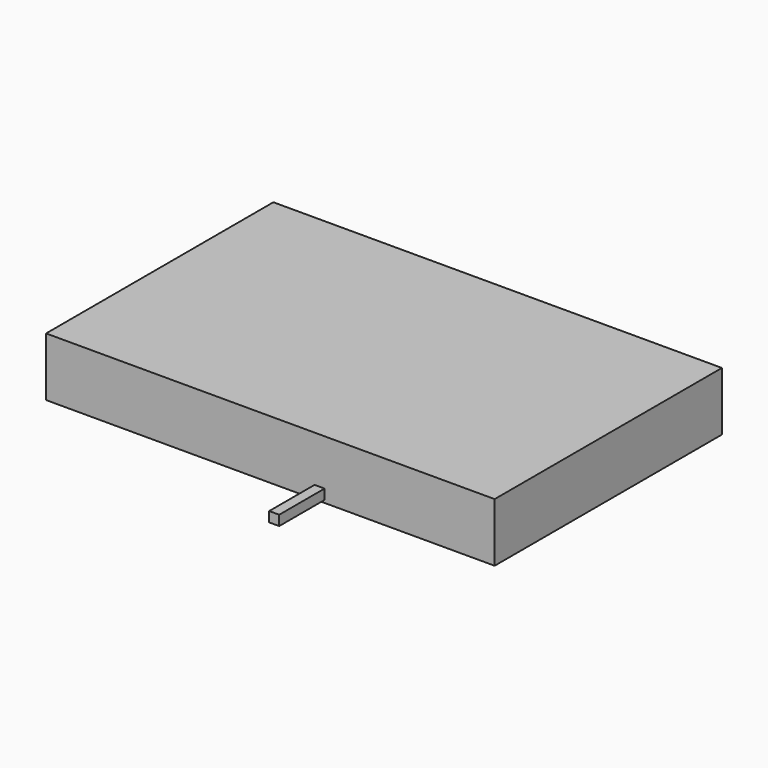
from build123d import *

# Parameters (mm, degrees)
F0_W     = 3363.108642
F0_H     = 440
F1_DEPTH = 2130
F2_W     = 75
F2_H     = 75
F3_DEPTH = 425


with BuildPart() as f1:
    # F0 (on Front) → F1 (new body)
    with BuildSketch(Plane.XZ):
        with Locations((1681.554321, -220)):
            Rectangle(F0_W, F0_H)
    extrude(amount=-F1_DEPTH)

    # F2 (on face) → F3 (join)
    with BuildSketch(Plane.XZ):
        with Locations((2050.487423, -382.5)):
            Rectangle(F2_W, F2_H)
    extrude(amount=F3_DEPTH)


solid = f1.part
